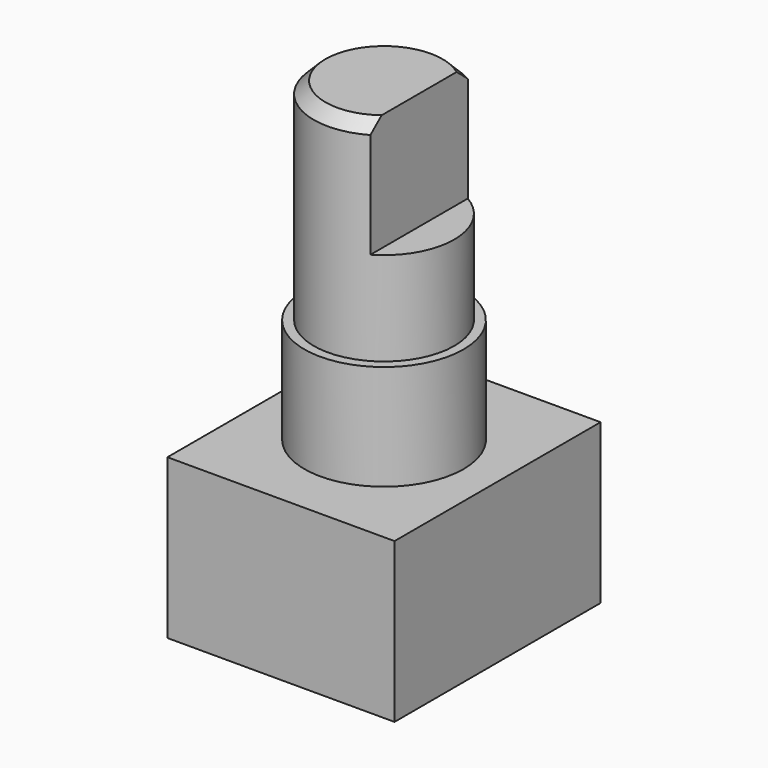
from build123d import *

# Parameters (mm, degrees)
SKETCH_W     = 9.7
SKETCH_H     = 11
PAD_DEPTH    = 6.8
SKETCH001_R  = 3.4
PAD001_DEPTH = 4.5
SKETCH002_R  = 3
PAD002_DEPTH = 13.5
SKETCH003_W  = 1.5
SKETCH003_H  = 5
POCKET_DEPTH = 3
CHAMFER_SIZE = 0.5


with BuildPart() as part:
    # Sketch → Pad (new body)
    with BuildSketch(Plane.XY):
        Rectangle(SKETCH_W, SKETCH_H)
    extrude(amount=-PAD_DEPTH)

    # Sketch001 → Pad001 (join)
    with BuildSketch(Plane.XY):
        Circle(SKETCH001_R)
    extrude(amount=PAD001_DEPTH)

    # Sketch002 → Pad002 (join)
    with BuildSketch(Plane.XY):
        Circle(SKETCH002_R)
    extrude(amount=PAD002_DEPTH)

    # Sketch003 → Pocket (cut, symmetric)
    with BuildSketch(Plane.XZ):
        with Locations((2.25, 11)):
            Rectangle(SKETCH003_W, SKETCH003_H)
    extrude(amount=POCKET_DEPTH, both=True, mode=Mode.SUBTRACT)

    # Chamfer
    chamfer_edges = [part.edges().sort_by_distance(p)[0] for p in [
        (-3, 0, 13.5),
    ]]
    chamfer(chamfer_edges, length=CHAMFER_SIZE)


solid = part.part
